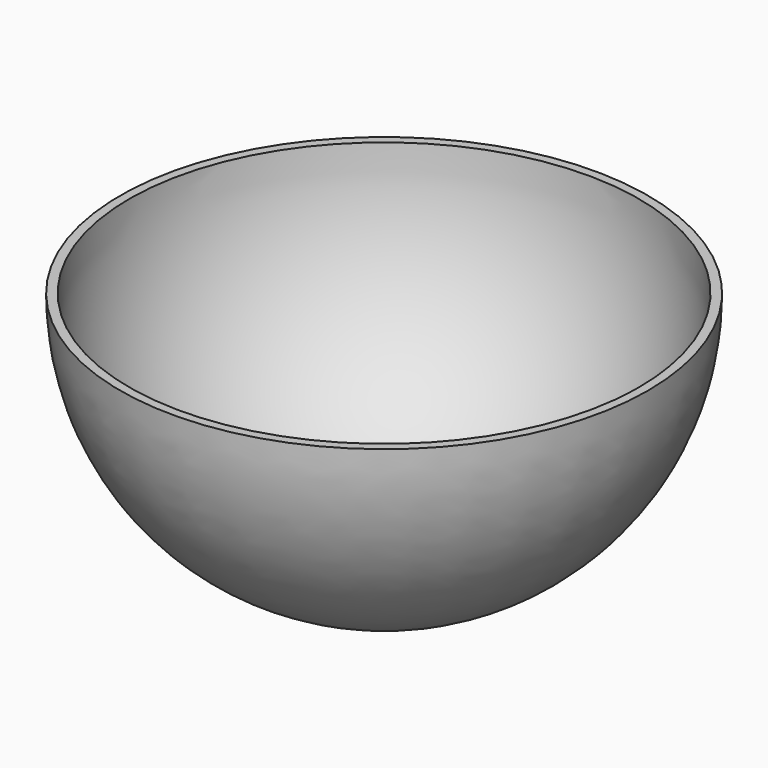
from build123d import *

# Parameters (mm, degrees)
F2_T = -2.54


with BuildPart() as f1:
    # F0 (on Front) → F1 (revolve)
    with BuildSketch(Plane.XZ):
        with BuildLine():
            Line((74.151168, 51.157176), (0, 51.157176))
            Line((0, 51.157176), (0, -22.993991))
            ThreePointArc((0, -22.993991), (52.432793, -1.275617), (74.151168, 51.157176))
        make_face()
    revolve(axis=Axis((0, 0, 14.081593), (0, 0, -1)))

    # F2
    f2_openings = [f1.faces().sort_by_distance(p)[0] for p in [
        (0, 0, 51.157176),
    ]]
    offset(amount=F2_T, openings=f2_openings)


solid = f1.part
